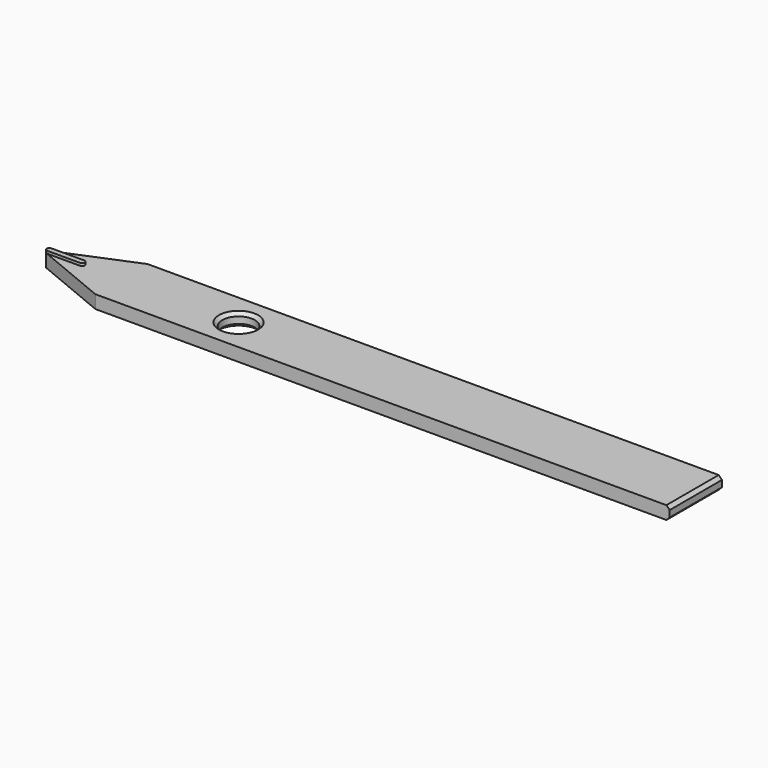
from build123d import *

# Parameters (mm, degrees)
F1_DEPTH = 2
F2_R     = 2.5
F3_DEPTH = 25
F4_SIZE  = 0.5
F5_SIZE  = 0.5
F6_R     = 0.4
F8_DEPTH = 0.4


with BuildPart() as f1:
    # F0 (on Top) → F1 (new body)
    with BuildSketch(Plane.XY):
        Polygon((1.5653009757, -10), (1.5653009757, 0), (-86.3636312124, 0), (-98.4346990243, -5), (-86.3636312124, -10), align=None)
    extrude(amount=F1_DEPTH)

    # F2 (on face) → F3 (cut)
    with BuildSketch(Plane.XY.offset(2)):
        with Locations((-68.4346990243, -5)):
            Circle(F2_R)
        with Locations((-68.4346990243, -5)):
            Circle(F2_R)
    extrude(amount=-F3_DEPTH, mode=Mode.SUBTRACT)

    # F4
    f4_edges = [f1.edges().sort_by_distance(p)[0] for p in [
        (-70.934699, -5, 2),
        (-70.934699, -5, 0),
    ]]
    chamfer(f4_edges, length=F4_SIZE)

    # F5
    f5_edges = [f1.edges().sort_by_distance(p)[0] for p in [
        (1.565301, -5, 2),
        (1.565301, -5, 0),
    ]]
    chamfer(f5_edges, length=F5_SIZE)

    # F6
    f6_edges = [f1.edges().sort_by_distance(p)[0] for p in [
        (-98.434699, -5, 1),
    ]]
    fillet(f6_edges, radius=F6_R)

    # F7 (on face) → F8 (join)
    with BuildSketch(Plane.XY.offset(2)):
        with BuildLine():
            ThreePointArc((-97.5425220254, -5.369551813), (-97.4674847812, -5.3923141122), (-97.3894486524, -5.4))
            Line((-97.3894486524, -5.4), (-92.3894486524, -5.4))
            ThreePointArc((-92.3894486524, -5.4), (-91.9894486524, -5), (-92.3894486524, -4.6))
            Line((-92.3894486524, -4.6), (-97.3894486524, -4.6))
            ThreePointArc((-97.3894486524, -4.6), (-97.4674847812, -4.6076858878), (-97.5425220254, -4.630448187))
            ThreePointArc((-97.5425220254, -4.630448187), (-97.7894486524, -5), (-97.5425220254, -5.369551813))
        make_face()
    extrude(amount=F8_DEPTH)


solid = f1.part
